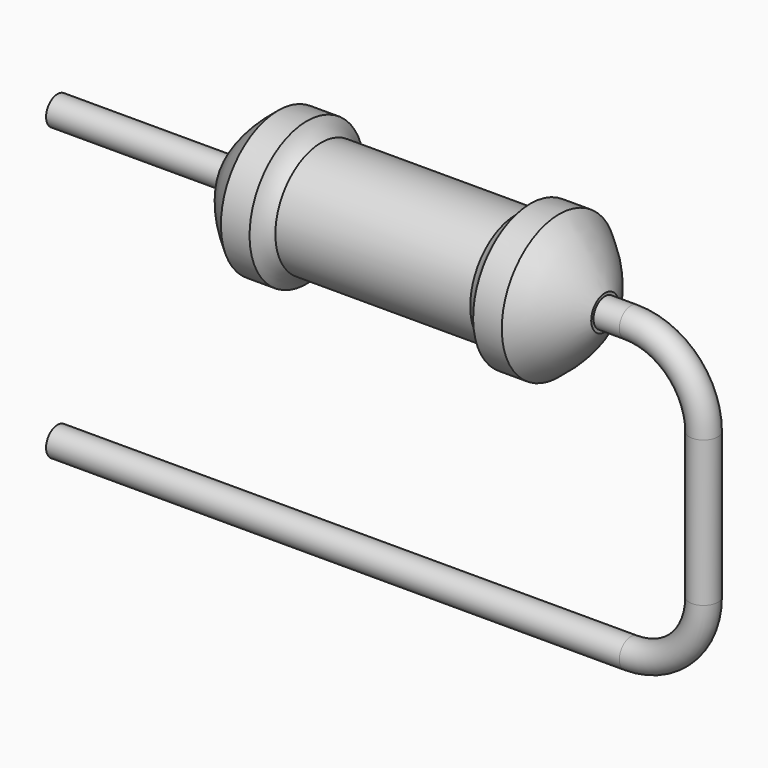
from build123d import *

# Parameters (mm, degrees)
SKETCH_R = 0.25


with BuildPart() as revolution:
    # Sketch002 → Revolution (revolve)
    with BuildSketch(Plane.XZ):
        with BuildLine():
            Line((1.35, 6.33), (1.85, 6.33))
            ThreePointArc((1.85, 6.33), (1.956999, 6.186999), (2.1, 6.08))
            Line((2.1, 6.08), (5.5, 6.08))
            ThreePointArc((5.5, 6.08), (5.643001, 6.186999), (5.75, 6.33))
            Line((5.75, 6.33), (6.25, 6.33))
            ThreePointArc((7.05, 5.38), (6.703542, 5.900088), (6.25, 6.33))
            Line((7.05, 5.08), (7.05, 5.38))
            Line((0.55, 5.08), (7.05, 5.08))
            Line((0.55, 5.08), (0.55, 5.38))
            ThreePointArc((1.35, 6.33), (0.896458, 5.900088), (0.55, 5.38))
        make_face()
    revolve(axis=Axis((0.55, 0, 5.08), (1, 0, 0)))


with BuildPart() as sweep_body:
    # Sweep: sweep along a path in Sketch001
    with BuildLine(Plane.XZ) as sweep_path:
        Line((-2.5, 0), (7.5, 0))
        ThreePointArc((7.5, 0), (8.398026, 0.371974), (8.77, 1.27))
        Line((8.77, 1.27), (8.77, 3.81))
        ThreePointArc((8.77, 3.81), (8.398026, 4.708026), (7.5, 5.08))
        Line((7.5, 5.08), (-2.5, 5.08))
    # Sketch → Sweep (sweep)
    with BuildSketch(Plane.YZ.offset(-2.5)):
        Circle(SKETCH_R)
    sweep(path=sweep_path.line, is_frenet=True)


solid = Compound([revolution.part, sweep_body.part])
